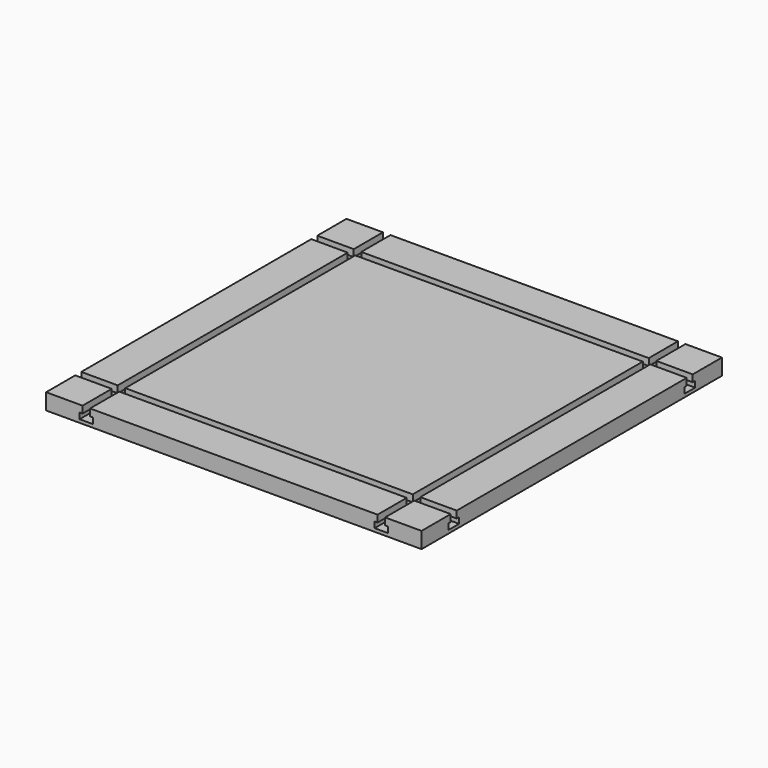
from build123d import *

# Parameters (mm, degrees)
F1_DEPTH = 700
F3_DEPTH = 700


with BuildPart() as f1:
    # F0 (on Front) → F1 (new body)
    with BuildSketch(Plane.XZ):
        Polygon((350, -15), (350, 15), (282, 15), (282, 2), (287.5, 2), (287.5, -9), (262.5, -9), (262.5, 2), (268, 2), (268, 15), (-268, 15), (-268, 2), (-262.5, 2), (-262.5, -9), (-287.5, -9), (-287.5, 2), (-282, 2), (-282, 15), (-350, 15), (-350, -15), align=None)
    extrude(amount=-F1_DEPTH)

    # F2 (on face) → F3 (cut)
    with BuildSketch(Plane(origin=(-350, 0, 0), x_dir=(0, -1, 0), z_dir=(-1, 0, 0))):
        Polygon((-618, 2), (-618, 15), (-632, 15), (-632, 2), (-637.5, 2), (-637.5, -9), (-612.5, -9), (-612.5, 2), align=None)
        Polygon((-68, 2), (-68, 15), (-82, 15), (-82, 2), (-87.5, 2), (-87.5, -9), (-62.5, -9), (-62.5, 2), align=None)
    extrude(amount=-F3_DEPTH, mode=Mode.SUBTRACT)


solid = f1.part
